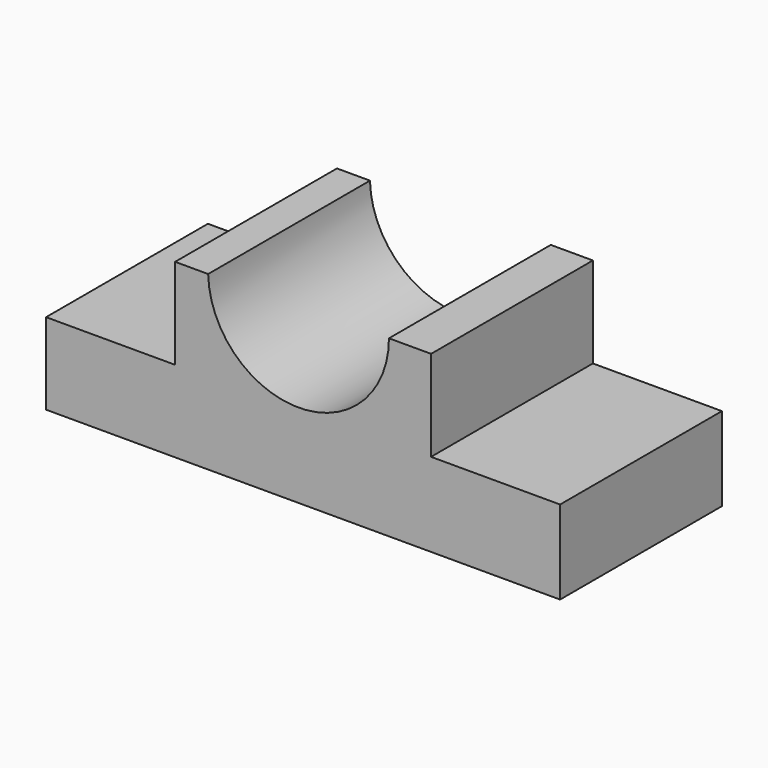
from build123d import *

# Parameters (mm, degrees)
F1_DEPTH = 1473.2


with BuildPart() as f1:
    # F0 (on Front) → F1 (new body)
    with BuildSketch(Plane.XZ):
        with BuildLine():
            Line((0, 609.6), (0, 16.185442))
            Line((0, 16.185442), (3743.703057, 16.185442))
            Line((3743.703057, 16.185442), (3743.703057, 625.785442))
            Line((3743.703057, 625.785442), (2803.903057, 625.785442))
            Line((2803.903057, 625.785442), (2803.903057, 1286.185442))
            Line((2803.903057, 1286.185442), (2499.103057, 1286.185442))
            Line((2499.103057, 1286.185442), (2497.263866, 1286.185442))
            ThreePointArc((2497.263866, 1286.185442), (1846.79639, 627.674367), (1180.341174, 1270))
            Line((1180.341174, 1270), (939.8, 1270))
            Line((939.8, 1270), (939.8, 609.6))
            Line((939.8, 609.6), (0, 609.6))
        make_face()
    extrude(amount=F1_DEPTH)


solid = f1.part
